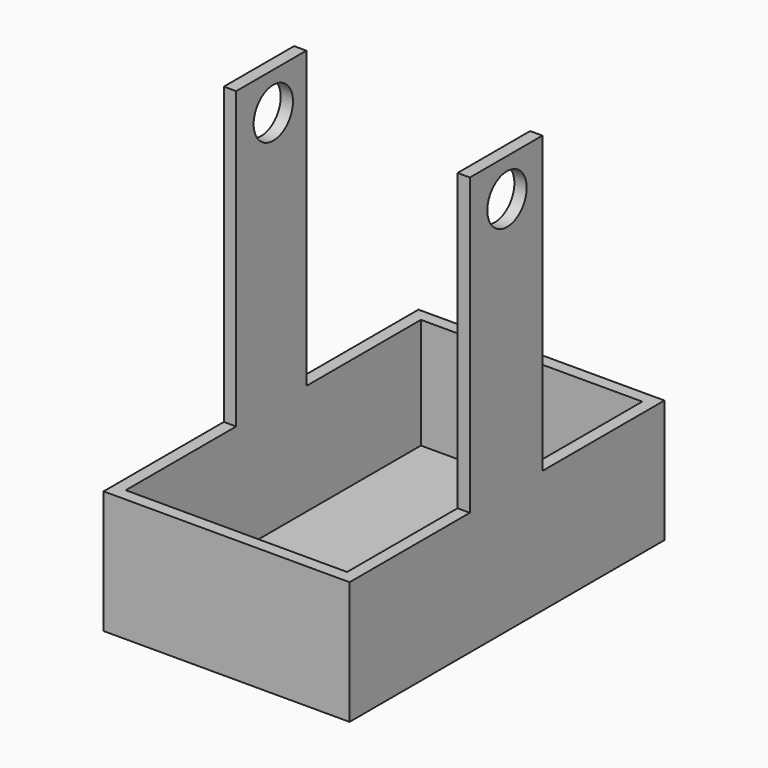
from build123d import *

# Parameters (mm, degrees)
F0_W     = 50
F0_H     = 80
F1_DEPTH = 25
F2_T     = -2.5
F3_W     = 2.5
F3_H     = 17.840053
F3_H_2   = 18.443981
F4_DEPTH = 60
F6_D     = 10


with BuildPart() as f1:
    # F0 (on Top) → F1 (new body)
    with BuildSketch(Plane.XY):
        Rectangle(F0_W, F0_H)
    extrude(amount=F1_DEPTH)

    # F2
    f2_openings = [f1.faces().sort_by_distance(p)[0] for p in [
        (0, 0, 25),
    ]]
    offset(amount=F2_T, openings=f2_openings)

    # F3 (on face) → F4 (join)
    with BuildSketch(Plane.XY.offset(25)):
        with Locations((-23.75, -0.518573)):
            Rectangle(F3_W, F3_H)
        with Locations((23.75, -0.216609)):
            Rectangle(F3_W, F3_H_2)
    extrude(amount=F4_DEPTH)

    # F6 (through all)
    with Locations(Plane.YZ.offset(25)):
        with Locations((0, 77.299073)):
            Hole(F6_D / 2)


solid = f1.part
